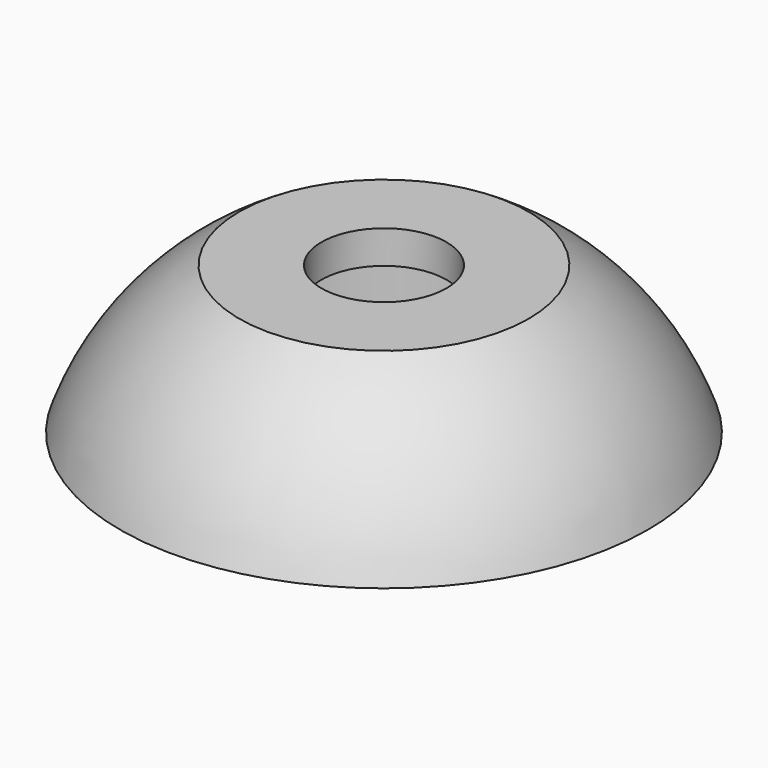
from build123d import *

# Parameters (mm, degrees)
CYLINDER046_R     = 4.3
CYLINDER046_DEPTH = 3.1
CYLINDER010_R     = 1.7
CYLINDER010_DEPTH = 10
CYLINDER045_R     = 9
CYLINDER045_DEPTH = 4


with BuildPart() as cylinder046:
    # Cylinder046 → Cylinder046 (new body)
    with BuildSketch(Plane.XY.offset(123)):
        Circle(CYLINDER046_R)
    extrude(amount=CYLINDER046_DEPTH)


with BuildPart() as obj1:
    # Cylinder010 → Cylinder010 (new body)
    with BuildSketch(Plane.XY.offset(118)):
        Circle(CYLINDER010_R)
    extrude(amount=CYLINDER010_DEPTH)

    # Fusion006: union Cylinder046
    add(cylinder046.part)


with BuildPart() as sphere:
    # Sphere → Sphere (revolve)
    with BuildSketch(Plane(origin=(0, 0, 120.5), x_dir=(1, 0, 0), z_dir=(0, -1, 0))):
        with BuildLine():
            ThreePointArc((7.185941, 2.474318), (4.413342, 6.187278), (0, 7.6))
            Line((0, 7.6), (0, 2.474318))
            Line((0, 2.474318), (7.185941, 2.474318))
        make_face()
    revolve(axis=Axis((0, 0, 120.5), (0, 0, 1)))


with BuildPart() as top:
    # Cylinder045 → Cylinder045 (new body)
    with BuildSketch(Plane.XY.offset(123)):
        Circle(CYLINDER045_R)
    extrude(amount=CYLINDER045_DEPTH)

    # Common002: intersect Sphere
    add(sphere.part, mode=Mode.INTERSECT)

    # Cut039: cut obj1
    add(obj1.part, mode=Mode.SUBTRACT)


solid = top.part
